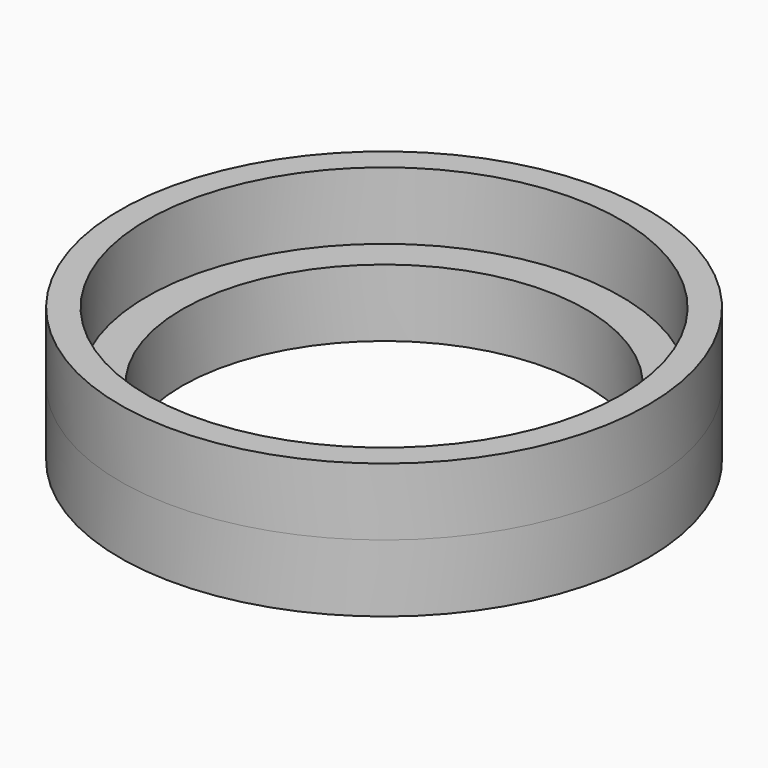
from build123d import *

# Parameters (mm, degrees)
F0_R     = 19.6
F0_R_2   = 17.6
F0_R_3   = 17
F0_R_4   = 15
F1_DEPTH = 5
F2_DEPTH = 5


with BuildPart() as f1:
    # F0 (on Top) → F1 (new body)
    with BuildSketch(Plane.XY):
        Circle(F0_R)
        Circle(F0_R_2, mode=Mode.SUBTRACT)
        Circle(F0_R_2)
        Circle(F0_R_3, mode=Mode.SUBTRACT)
        Circle(F0_R_3)
        Circle(F0_R_4, mode=Mode.SUBTRACT)
    extrude(amount=-F1_DEPTH)

    # F0 (on Top) → F2 (join)
    with BuildSketch(Plane.XY):
        Circle(F0_R)
        Circle(F0_R_2, mode=Mode.SUBTRACT)
    extrude(amount=F2_DEPTH)


solid = f1.part
